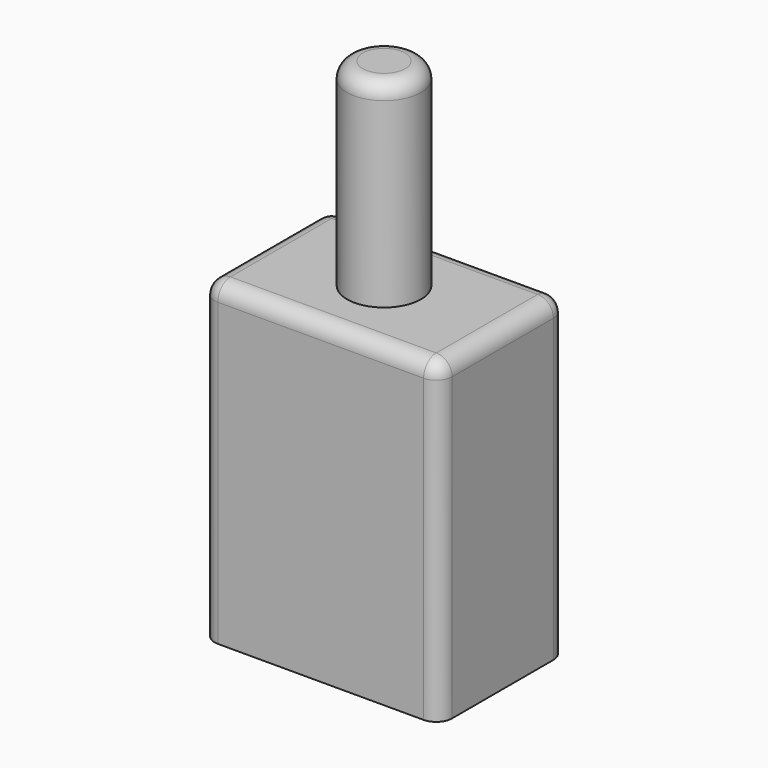
from build123d import *

# Parameters (mm, degrees)
F0_W     = 30
F0_H     = 20
F1_DEPTH = 40
F2_R     = 4.672603
F3_DEPTH = 25
F4_R     = 2


with BuildPart() as f1:
    # F0 (on Top) → F1 (new body)
    with BuildSketch(Plane.XY):
        with Locations((15, 10)):
            Rectangle(F0_W, F0_H)
    extrude(amount=F1_DEPTH)

    # F2 (on face) → F3 (join)
    with BuildSketch(Plane.XY.offset(40)):
        with Locations((15, 10)):
            Circle(F2_R)
    extrude(amount=F3_DEPTH)

    # F4
    f4_edges = [f1.edges().sort_by_distance(p)[0] for p in [
        (10.327397, 10, 65),
        (30, 10, 40),
        (15, 0, 40),
        (0, 10, 40),
        (15, 20, 40),
        (30, 20, 20),
        (30, 0, 20),
        (0, 0, 20),
        (0, 20, 20),
    ]]
    fillet(f4_edges, radius=F4_R)


solid = f1.part
